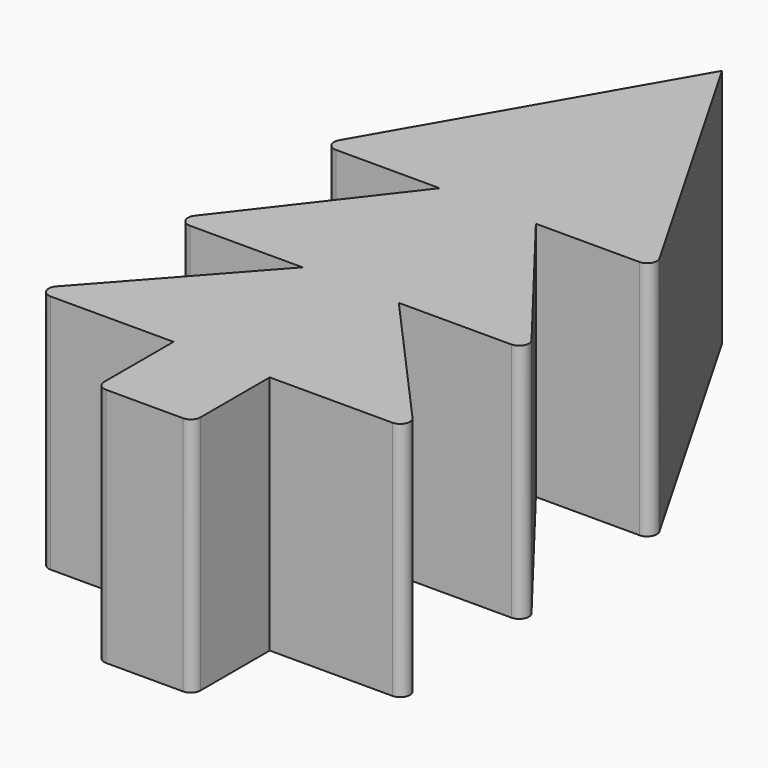
from build123d import *

# Parameters (mm, degrees)
F1_DEPTH = 10


with BuildPart() as f1:
    # F0 (on Top) → F1 (new body)
    with BuildSketch(Plane.XY):
        with BuildLine():
            Line((6.655138, 6.39856), (0, 17.96699))
            Line((0, 17.96699), (0, -12.03301))
            Line((0, -12.03301), (1.6, -12.03301))
            ThreePointArc((1.6, -12.03301), (1.882843, -11.915853), (2, -11.63301))
            Line((2, -11.63301), (2, -8.03301))
            Line((2, -8.03301), (7.105573, -8.03301))
            ThreePointArc((7.105573, -8.03301), (7.470721, -7.796309), (7.403715, -7.366343))
            Line((7.403715, -7.366343), (2, -1.324806))
            Line((2, -1.324806), (6.68584, -1.324806))
            ThreePointArc((6.68584, -1.324806), (7.044851, -1.101189), (7.002458, -0.680362))
            Line((7.002458, -0.680362), (2, 5.799097))
            Line((2, 5.799097), (6.308419, 5.799097))
            ThreePointArc((6.308419, 5.799097), (6.654674, 5.998829), (6.655138, 6.39856))
        make_face()
        with BuildLine():
            Line((0, -12.03301), (0, 17.96699))
            Line((0, 17.96699), (-6.655138, 6.39856))
            ThreePointArc((-6.655138, 6.39856), (-6.654674, 5.998829), (-6.308419, 5.799097))
            Line((-6.308419, 5.799097), (-2, 5.799097))
            Line((-2, 5.799097), (-7.002458, -0.680362))
            ThreePointArc((-7.002458, -0.680362), (-7.044851, -1.101189), (-6.68584, -1.324806))
            Line((-6.68584, -1.324806), (-2, -1.324806))
            Line((-2, -1.324806), (-7.403715, -7.366343))
            ThreePointArc((-7.403715, -7.366343), (-7.470721, -7.796309), (-7.105573, -8.03301))
            Line((-7.105573, -8.03301), (-2, -8.03301))
            Line((-2, -8.03301), (-2, -11.63301))
            ThreePointArc((-2, -11.63301), (-1.882843, -11.915853), (-1.6, -12.03301))
            Line((-1.6, -12.03301), (0, -12.03301))
        make_face()
    extrude(amount=F1_DEPTH)


solid = f1.part
